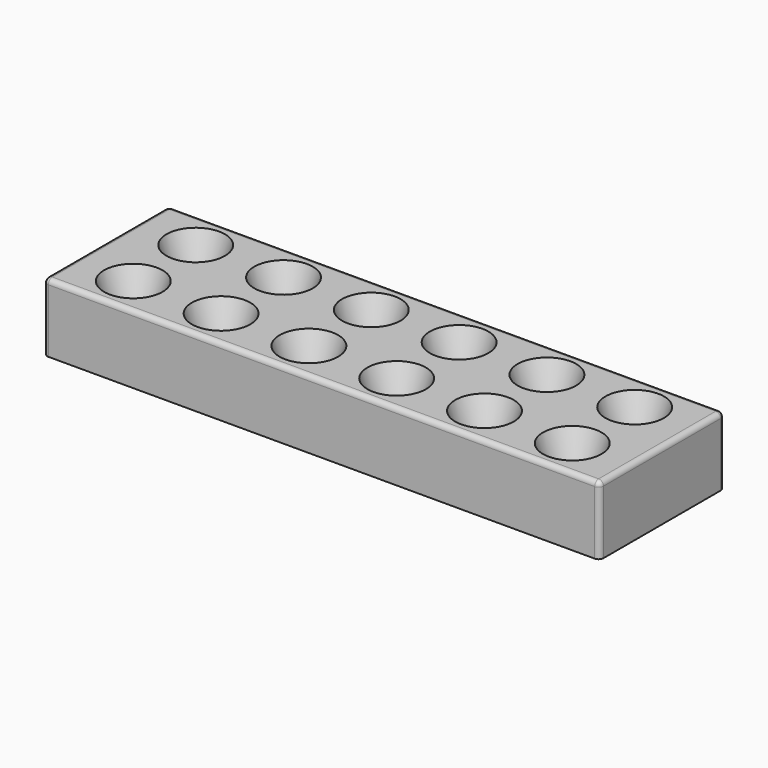
from build123d import *

# Parameters (mm, degrees)
ARRAY_X_COUNT = 6
ARRAY_X_PITCH = 9
ARRAY_Y_COUNT = 2
ARRAY_Y_PITCH = 8
BOX_W         = 57
BOX_H         = 16
BOX_DEPTH     = 7
FILLET_R      = 0.5


with BuildPart() as array:
    # Cone → Cone (revolve)
    with BuildSketch(Plane(origin=(6, 4, 1), x_dir=(1, 0, 0), z_dir=(0, -1, 0))):
        Polygon((0, 0), (1, 0), (3, 6), (0, 6), align=None)
    revolve(axis=Axis((6, 4, 1), (0, 0, 1)))

    # Array X: Array ×6


with BuildPart() as array_1:
    add(array.part)
    with Locations(*[(i * ARRAY_X_PITCH, 0, 0) for i in range(1, ARRAY_X_COUNT)]):
        add(array.part)

    # Array Y: Array ×2


with BuildPart() as array_2:
    add(array_1.part)
    with Locations(*[(0, i * ARRAY_Y_PITCH, 0) for i in range(1, ARRAY_Y_COUNT)]):
        add(array_1.part)


with BuildPart() as obj1:
    # Box → Box (new body)
    with BuildSketch(Plane.XY):
        with Locations((28.5, 8)):
            Rectangle(BOX_W, BOX_H)
    extrude(amount=BOX_DEPTH)

    # Fillet
    fillet_edges = [obj1.edges().sort_by_distance(p)[0] for p in [
        (0, 0, 3.5),
        (0, 8, 7),
        (0, 16, 3.5),
        (57, 0, 3.5),
        (57, 8, 7),
        (57, 16, 3.5),
        (28.5, 0, 7),
        (28.5, 16, 7),
    ]]
    fillet(fillet_edges, radius=FILLET_R)

    # Cut: cut Array
    add(array_2.part, mode=Mode.SUBTRACT)


solid = obj1.part
